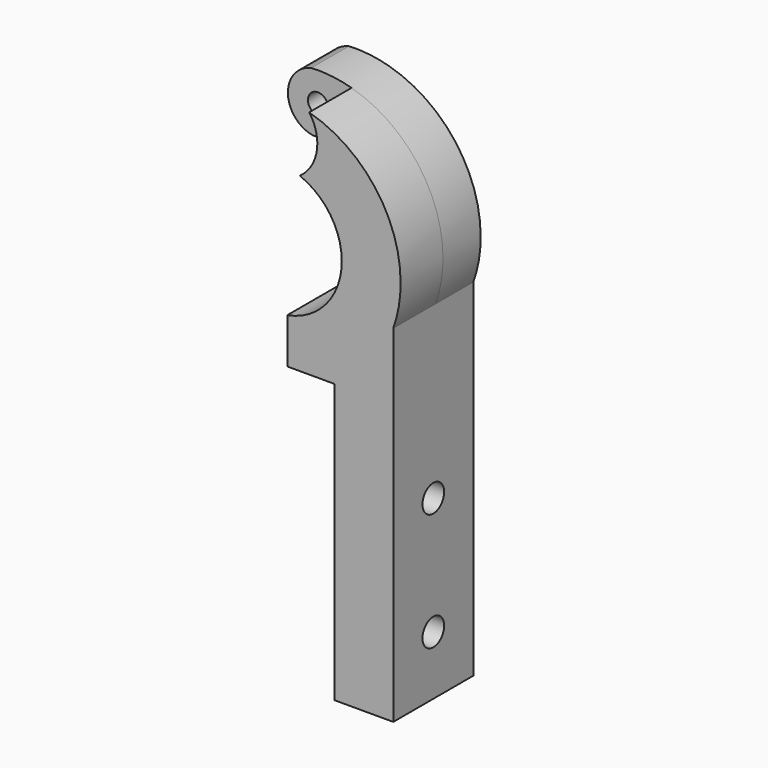
from build123d import *

# Parameters (mm, degrees)
F0_R     = 1.7
F1_DEPTH = 5
F2_DEPTH = 8
F3_DEPTH = 17
F4_R     = 2.3
F5_DEPTH = 25


with BuildPart() as f1:
    # F0 (on Front) → F1 (new body)
    with BuildSketch(Plane.XZ):
        with BuildLine():
            ThreePointArc((4.1207105035, 10.4681538462), (9.2984002163, 6.3326340032), (11.25, 0))
            ThreePointArc((11.25, 0), (8.6331483249, -7.2132690231), (2, -11.0707949127))
            Line((2, -11.0707949127), (2, -18.75))
            Line((2, -18.75), (10, -18.75))
            ThreePointArc((10, -18.75), (16.0767582704, -13.8960549623), (20, -7.1807033082))
            ThreePointArc((20, -7.1807033082), (20.9351677806, -3.6443449343), (21.25, 0))
            ThreePointArc((21.25, 0), (16.9251932479, 12.8491374621), (5.7111450805, 20.4681538462))
            ThreePointArc((5.7111450805, 20.4681538462), (6.7438538712, 18.470458278), (7.1, 16.25))
            ThreePointArc((7.1, 16.25), (6.3113803789, 12.9978502936), (4.1207105035, 10.4681538462))
        make_face()
        with BuildLine():
            ThreePointArc((2, 11.0707949127), (3.0751533833, 10.8215494117), (4.1207105035, 10.4681538462))
            ThreePointArc((4.1207105035, 10.4681538462), (6.3113803789, 12.9978502936), (7.1, 16.25))
            ThreePointArc((7.1, 16.25), (6.7438538712, 18.470458278), (5.7111450805, 20.4681538462))
            ThreePointArc((5.7111450805, 20.4681538462), (3.4504663185, 20.9679942337), (1.1488269912, 21.2189230769))
            ThreePointArc((1.1488269912, 21.2189230769), (3.9918052091, 19.4241914203), (5.1, 16.25))
            ThreePointArc((5.1, 16.25), (3.8904803589, 12.9524004827), (0.8356225189, 11.2189230769))
            ThreePointArc((0.8356225189, 11.2189230769), (1.4197444332, 11.1600549167), (2, 11.0707949127))
        make_face()
        with BuildLine():
            ThreePointArc((-0.8356225189, 11.2189230769), (0, 11.25), (0.8356225189, 11.2189230769))
            ThreePointArc((0.8356225189, 11.2189230769), (3.8904803589, 12.9524004827), (5.1, 16.25))
            ThreePointArc((5.1, 16.25), (3.9918052091, 19.4241914203), (1.1488269912, 21.2189230769))
            ThreePointArc((1.1488269912, 21.2189230769), (0, 21.25), (-1.1488269912, 21.2189230769))
            ThreePointArc((-1.1488269912, 21.2189230769), (-5.0975003643, 16.0903440089), (-0.8356225189, 11.2189230769))
        make_face()
        with Locations((0, 16.25)):
            Circle(F0_R, mode=Mode.SUBTRACT)
        with BuildLine():
            ThreePointArc((2, -11.0707949127), (8.6331483249, -7.2132690231), (11.25, 0))
            ThreePointArc((11.25, 0), (9.2984002163, 6.3326340032), (4.1207105035, 10.4681538462))
            ThreePointArc((4.1207105035, 10.4681538462), (3.1034384471, 9.864182135), (2, 9.4375114679))
            Line((2, 9.4375114679), (2, 8.7749643874))
            ThreePointArc((2, 8.7749643874), (7.0356236397, 5.6124860802), (9, 0))
            ThreePointArc((9, 0), (7.0356236397, -5.6124860802), (2, -8.7749643874))
            Line((2, -8.7749643874), (2, -11.0707949127))
        make_face()
        with BuildLine():
            ThreePointArc((2, 9.4375114679), (3.1034384471, 9.864182135), (4.1207105035, 10.4681538462))
            ThreePointArc((4.1207105035, 10.4681538462), (3.0751533833, 10.8215494117), (2, 11.0707949127))
            Line((2, 11.0707949127), (2, 9.4375114679))
        make_face()
        with BuildLine():
            ThreePointArc((20, -7.1807033082), (16.0767582704, -13.8960549623), (10, -18.75))
            Line((10, -18.75), (10, -66.05))
            Line((10, -66.05), (20, -66.05))
            Line((20, -66.05), (20, -7.1807033082))
        make_face()
    extrude(amount=F1_DEPTH)

    # F0 (on Front) → F2 (join)
    with BuildSketch(Plane.XZ):
        with BuildLine():
            ThreePointArc((4.1207105035, 10.4681538462), (9.2984002163, 6.3326340032), (11.25, 0))
            ThreePointArc((11.25, 0), (8.6331483249, -7.2132690231), (2, -11.0707949127))
            Line((2, -11.0707949127), (2, -18.75))
            Line((2, -18.75), (10, -18.75))
            ThreePointArc((10, -18.75), (16.0767582704, -13.8960549623), (20, -7.1807033082))
            ThreePointArc((20, -7.1807033082), (20.9351677806, -3.6443449343), (21.25, 0))
            ThreePointArc((21.25, 0), (16.9251932479, 12.8491374621), (5.7111450805, 20.4681538462))
            ThreePointArc((5.7111450805, 20.4681538462), (6.7438538712, 18.470458278), (7.1, 16.25))
            ThreePointArc((7.1, 16.25), (6.3113803789, 12.9978502936), (4.1207105035, 10.4681538462))
        make_face()
        with BuildLine():
            ThreePointArc((2, 11.0707949127), (3.0751533833, 10.8215494117), (4.1207105035, 10.4681538462))
            ThreePointArc((4.1207105035, 10.4681538462), (6.3113803789, 12.9978502936), (7.1, 16.25))
            ThreePointArc((7.1, 16.25), (6.7438538712, 18.470458278), (5.7111450805, 20.4681538462))
            ThreePointArc((5.7111450805, 20.4681538462), (3.4504663185, 20.9679942337), (1.1488269912, 21.2189230769))
            ThreePointArc((1.1488269912, 21.2189230769), (3.9918052091, 19.4241914203), (5.1, 16.25))
            ThreePointArc((5.1, 16.25), (3.8904803589, 12.9524004827), (0.8356225189, 11.2189230769))
            ThreePointArc((0.8356225189, 11.2189230769), (1.4197444332, 11.1600549167), (2, 11.0707949127))
        make_face()
        with BuildLine():
            ThreePointArc((-0.8356225189, 11.2189230769), (0, 11.25), (0.8356225189, 11.2189230769))
            ThreePointArc((0.8356225189, 11.2189230769), (3.8904803589, 12.9524004827), (5.1, 16.25))
            ThreePointArc((5.1, 16.25), (3.9918052091, 19.4241914203), (1.1488269912, 21.2189230769))
            ThreePointArc((1.1488269912, 21.2189230769), (0, 21.25), (-1.1488269912, 21.2189230769))
            ThreePointArc((-1.1488269912, 21.2189230769), (-5.0975003643, 16.0903440089), (-0.8356225189, 11.2189230769))
        make_face()
        with Locations((0, 16.25)):
            Circle(F0_R, mode=Mode.SUBTRACT)
        with BuildLine():
            ThreePointArc((20, -7.1807033082), (16.0767582704, -13.8960549623), (10, -18.75))
            Line((10, -18.75), (10, -66.05))
            Line((10, -66.05), (20, -66.05))
            Line((20, -66.05), (20, -7.1807033082))
        make_face()
    extrude(amount=F2_DEPTH)

    # F0 (on Front) → F3 (join)
    with BuildSketch(Plane.XZ):
        with BuildLine():
            ThreePointArc((20, -7.1807033082), (16.0767582704, -13.8960549623), (10, -18.75))
            Line((10, -18.75), (10, -66.05))
            Line((10, -66.05), (20, -66.05))
            Line((20, -66.05), (20, -7.1807033082))
        make_face()
        with BuildLine():
            ThreePointArc((4.1207105035, 10.4681538462), (9.2984002163, 6.3326340032), (11.25, 0))
            ThreePointArc((11.25, 0), (8.6331483249, -7.2132690231), (2, -11.0707949127))
            Line((2, -11.0707949127), (2, -18.75))
            Line((2, -18.75), (10, -18.75))
            ThreePointArc((10, -18.75), (16.0767582704, -13.8960549623), (20, -7.1807033082))
            ThreePointArc((20, -7.1807033082), (20.9351677806, -3.6443449343), (21.25, 0))
            ThreePointArc((21.25, 0), (16.9251932479, 12.8491374621), (5.7111450805, 20.4681538462))
            ThreePointArc((5.7111450805, 20.4681538462), (6.7438538712, 18.470458278), (7.1, 16.25))
            ThreePointArc((7.1, 16.25), (6.3113803789, 12.9978502936), (4.1207105035, 10.4681538462))
        make_face()
    extrude(amount=F3_DEPTH)

    # F4 (on face) → F5 (cut)
    with BuildSketch(Plane.YZ.offset(20)):
        with Locations((-8.5, -56.05)):
            Circle(F4_R)
        with Locations((-8.5, -36.05)):
            Circle(F4_R)
    extrude(amount=-F5_DEPTH, mode=Mode.SUBTRACT)


solid = f1.part
